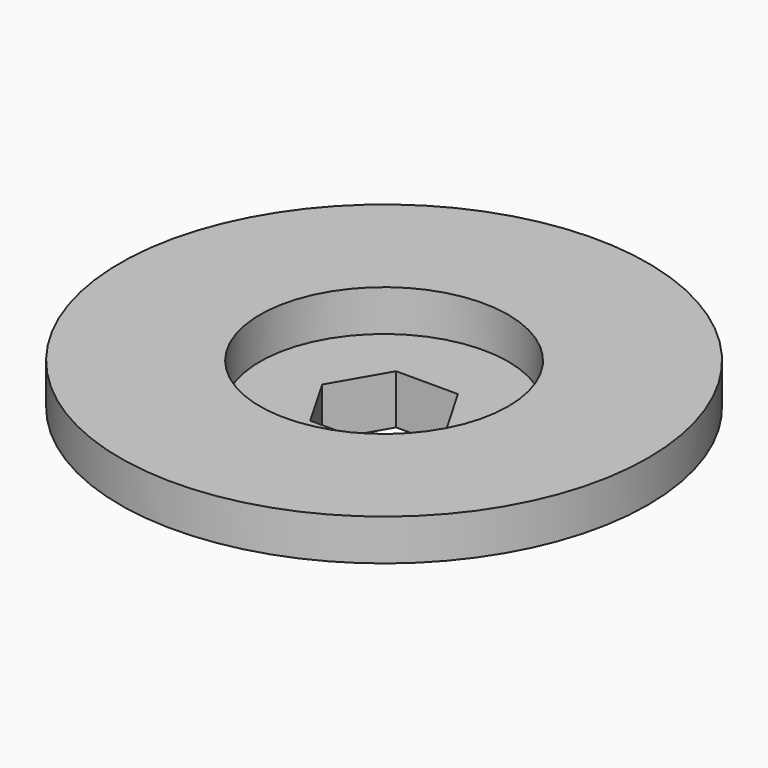
from build123d import *

# Parameters (mm, degrees)
EXTRUDE008_DEPTH = 10
SKETCH010_R      = 17
EXTRUDE007_DEPTH = 6
SKETCH008_R      = 32
SKETCH008_R_2    = 15.05
EXTRUDE006_DEPTH = 5


with BuildPart() as extrude008:
    # Sketch012 (on Face1 of CopyExtrude007001) → Extrude008 (new body)
    with BuildSketch(Plane(origin=(0, 0, -11), x_dir=(1, 0, 0), z_dir=(0, 0, -1))):
        Polygon((-3.752777, -6.5), (3.752777, -6.5), (7.505553, 0), (3.752777, 6.5), (-3.752777, 6.5), (-7.505553, 0), align=None)
    extrude(amount=-EXTRUDE008_DEPTH)


with BuildPart() as cut005:
    # Sketch010 (on Face1 of CopyExtrude006001) → Extrude007 (new body)
    with BuildSketch(Plane(origin=(0, 0, -5), x_dir=(1, 0, 0), z_dir=(0, 0, -1))):
        Circle(SKETCH010_R)
    extrude(amount=EXTRUDE007_DEPTH)

    # Cut005: cut Extrude008
    add(extrude008.part, mode=Mode.SUBTRACT)


with BuildPart() as fusion002:
    # Sketch008 (on Face1 of CopyCut004001) → Extrude006 (new body)
    with BuildSketch(Plane(origin=(0, 0, 0), x_dir=(1, 0, 0), z_dir=(0, 0, -1))):
        Circle(SKETCH008_R)
        Circle(SKETCH008_R_2, mode=Mode.SUBTRACT)
    extrude(amount=EXTRUDE006_DEPTH)

    # Fusion002: union Cut005
    add(cut005.part)


solid = fusion002.part
